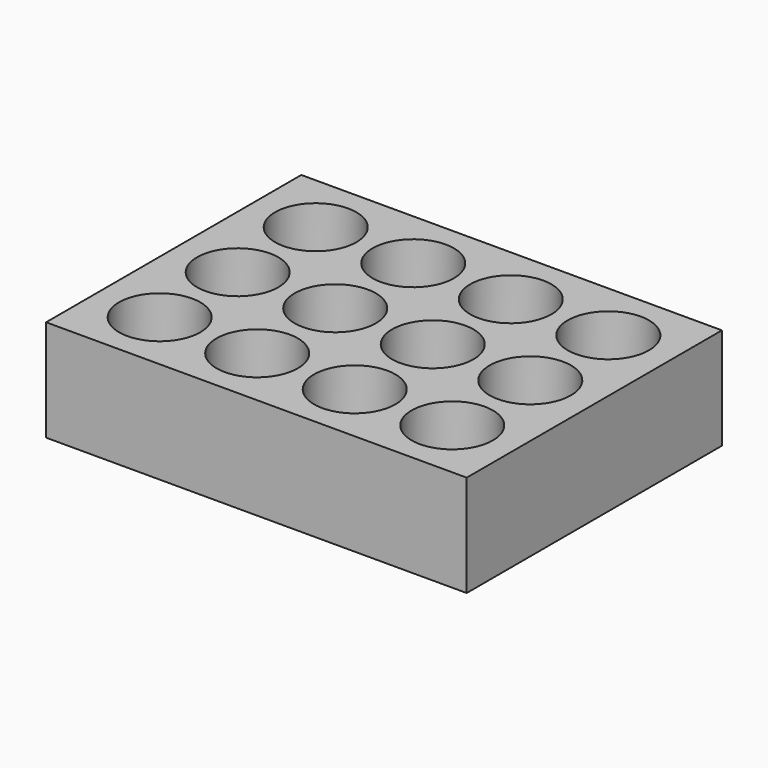
from build123d import *

# Parameters (mm, degrees)
F0_W     = 103.5
F0_H     = 78.5
F0_R     = 10
F1_DEPTH = 18
F2_DEPTH = 7


with BuildPart() as f1:
    # F0 (on Top) → F1 (new body)
    with BuildSketch(Plane.XY):
        Rectangle(F0_W, F0_H)
        with Locations((-36, -24)):
            Circle(F0_R, mode=Mode.SUBTRACT)
        with Locations((-12, -24)):
            Circle(F0_R, mode=Mode.SUBTRACT)
        with Locations((12, -24)):
            Circle(F0_R, mode=Mode.SUBTRACT)
        with Locations((36, -24)):
            Circle(F0_R, mode=Mode.SUBTRACT)
        with Locations((-36, 0)):
            Circle(F0_R, mode=Mode.SUBTRACT)
        with Locations((-12, 0)):
            Circle(F0_R, mode=Mode.SUBTRACT)
        with Locations((-36, 24)):
            Circle(F0_R, mode=Mode.SUBTRACT)
        with Locations((-12, 24)):
            Circle(F0_R, mode=Mode.SUBTRACT)
        with Locations((12, 0)):
            Circle(F0_R, mode=Mode.SUBTRACT)
        with Locations((36, 0)):
            Circle(F0_R, mode=Mode.SUBTRACT)
        with Locations((12, 24)):
            Circle(F0_R, mode=Mode.SUBTRACT)
        with Locations((36, 24)):
            Circle(F0_R, mode=Mode.SUBTRACT)
    extrude(amount=F1_DEPTH)

    # F0 (on Top) → F2 (join)
    with BuildSketch(Plane.XY):
        Rectangle(F0_W, F0_H)
        with Locations((-36, -24)):
            Circle(F0_R, mode=Mode.SUBTRACT)
        with Locations((-12, -24)):
            Circle(F0_R, mode=Mode.SUBTRACT)
        with Locations((12, -24)):
            Circle(F0_R, mode=Mode.SUBTRACT)
        with Locations((36, -24)):
            Circle(F0_R, mode=Mode.SUBTRACT)
        with Locations((-36, 0)):
            Circle(F0_R, mode=Mode.SUBTRACT)
        with Locations((-12, 0)):
            Circle(F0_R, mode=Mode.SUBTRACT)
        with Locations((-36, 24)):
            Circle(F0_R, mode=Mode.SUBTRACT)
        with Locations((-12, 24)):
            Circle(F0_R, mode=Mode.SUBTRACT)
        with Locations((12, 0)):
            Circle(F0_R, mode=Mode.SUBTRACT)
        with Locations((36, 0)):
            Circle(F0_R, mode=Mode.SUBTRACT)
        with Locations((12, 24)):
            Circle(F0_R, mode=Mode.SUBTRACT)
        with Locations((36, 24)):
            Circle(F0_R, mode=Mode.SUBTRACT)
        with Locations((-36, -24)):
            Circle(F0_R)
        with Locations((-12, -24)):
            Circle(F0_R)
        with Locations((12, -24)):
            Circle(F0_R)
        with Locations((36, -24)):
            Circle(F0_R)
        with Locations((12, 0)):
            Circle(F0_R)
        with Locations((-12, 0)):
            Circle(F0_R)
        with Locations((-36, 0)):
            Circle(F0_R)
        with Locations((-36, 24)):
            Circle(F0_R)
        with Locations((-12, 24)):
            Circle(F0_R)
        with Locations((12, 24)):
            Circle(F0_R)
        with Locations((36, 24)):
            Circle(F0_R)
        with Locations((36, 0)):
            Circle(F0_R)
    extrude(amount=-F2_DEPTH)


solid = f1.part
